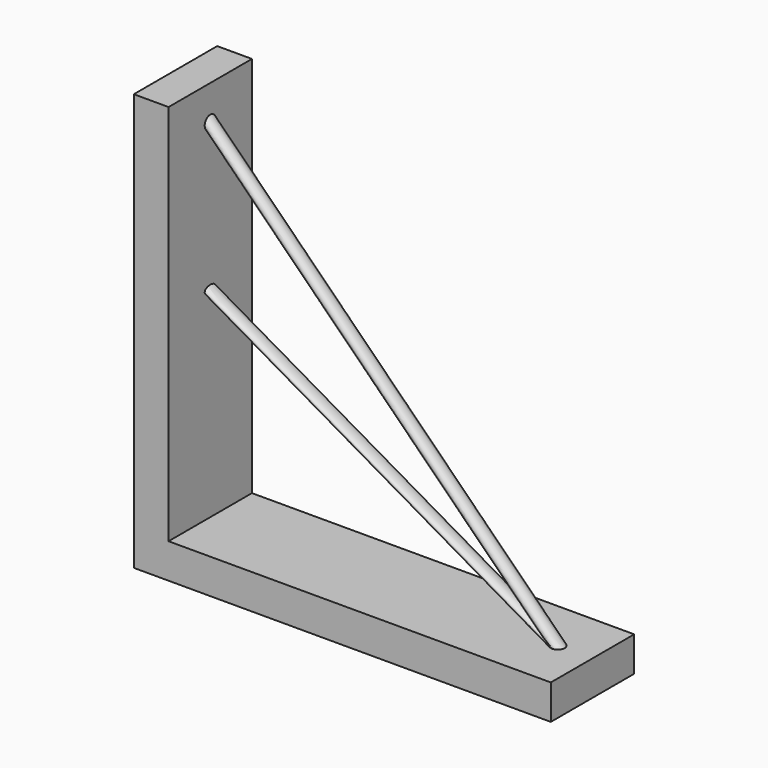
from build123d import *

# Parameters (mm, degrees)
F1_DEPTH = 15
F2_R     = 1


with BuildPart() as f1:
    # F0 (on Front) → F1 (new body)
    with BuildSketch(Plane.XZ):
        Polygon((0, 5), (0, 0), (5, 0), (60, 0), (60, 5), (5, 5), (5, 60), (0, 60), align=None)
    extrude(amount=F1_DEPTH)

    # F4: sweep along a path in F3
    with BuildLine(Plane.XZ) as f4_path:
        Line((55, 3), (1.966991411, 56.033008589))
    # F2 (on face) → F4 (sweep)
    with BuildSketch(Plane.XY.offset(5)):
        with Locations((55, -7.5)):
            Circle(F2_R)
    sweep(path=f4_path.line)

    # F6: sweep along a path in F5
    with BuildLine(Plane.XZ) as f6_path:
        Line((54.6012308025, 5), (2.6397065754, 35))
    # F2 (on face) → F6 (sweep)
    with BuildSketch(Plane.XY.offset(5)):
        with Locations((55, -7.5)):
            Circle(F2_R)
    sweep(path=f6_path.line)


solid = f1.part
